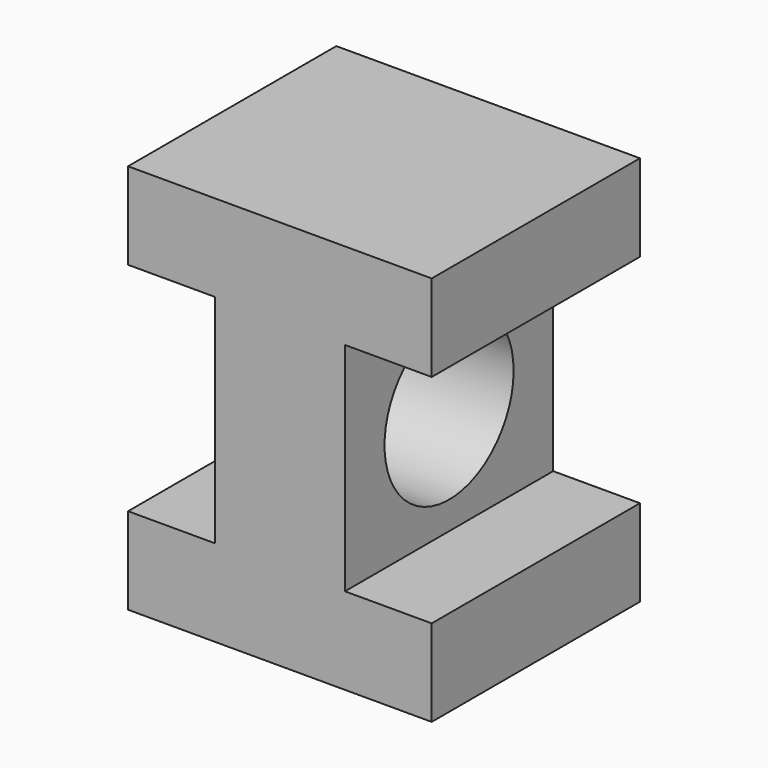
from build123d import *

# Parameters (mm, degrees)
F1_DEPTH = 76.2
F2_R     = 23.616514
F3_DEPTH = 63.501


with BuildPart() as f1:
    # F0 (on Front) → F1 (new body)
    with BuildSketch(Plane.XZ):
        Polygon((-48.345553, -28.549075), (-48.345553, -53.949075), (40.554447, -53.949075), (40.554447, -28.549075), (15.154447, -28.549075), (15.154447, 34.950925), (40.554447, 34.950925), (40.554447, 60.350925), (-48.345553, 60.350925), (-48.345553, 34.950925), (-22.945553, 34.950925), (-22.945553, -28.549075), align=None)
    extrude(amount=F1_DEPTH)

    # F2 (on face) → F3 (cut, through all)
    with BuildSketch(Plane.YZ.offset(15.154447)):
        with Locations((-38.1, 3.200925)):
            Circle(F2_R)
    extrude(amount=-F3_DEPTH, mode=Mode.SUBTRACT)


solid = f1.part
